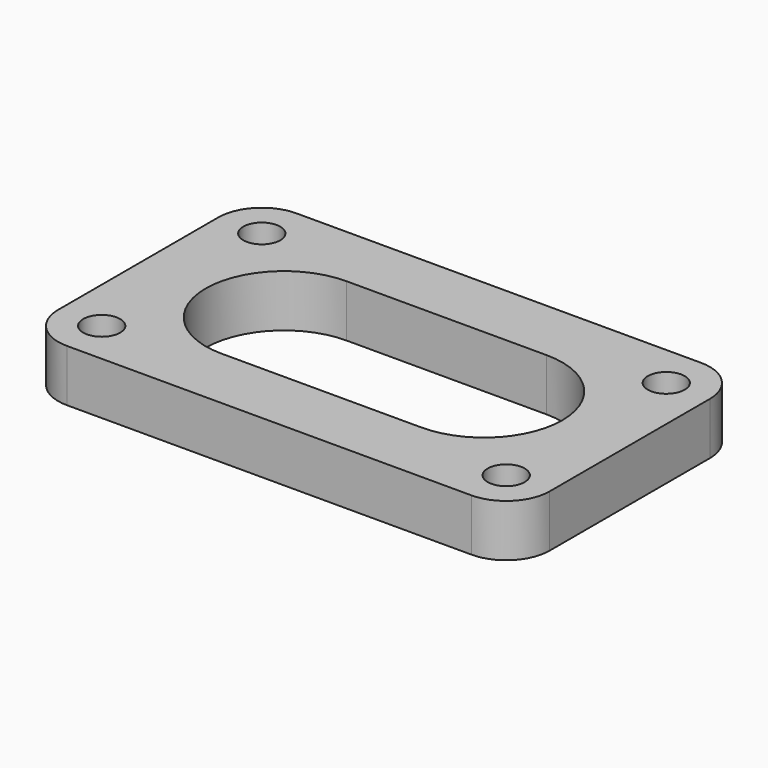
from build123d import *

# Parameters (mm, degrees)
F0_R     = 4.25
F1_DEPTH = 12


with BuildPart() as f1:
    # F0 (on Top) → F1 (new body)
    with BuildSketch(Plane.XY):
        with BuildLine():
            Line((46.5, 33), (-46.5, 33))
            ThreePointArc((-46.5, 33), (-53.571068, 30.071068), (-56.5, 23))
            Line((-56.5, 23), (-56.5, -23))
            ThreePointArc((-56.5, -23), (-53.571068, -30.071068), (-46.5, -33))
            Line((-46.5, -33), (46.5, -33))
            ThreePointArc((46.5, -33), (53.571068, -30.071068), (56.5, -23))
            Line((56.5, -23), (56.5, 23))
            ThreePointArc((56.5, 23), (53.571068, 30.071068), (46.5, 33))
        make_face()
        with Locations((-46.5, -23)):
            Circle(F0_R, mode=Mode.SUBTRACT)
        with Locations((46.5, -23)):
            Circle(F0_R, mode=Mode.SUBTRACT)
        with Locations((-46.5, 23)):
            Circle(F0_R, mode=Mode.SUBTRACT)
        with BuildLine():
            Line((23, -18), (-23, -18))
            ThreePointArc((-23, -18), (-41, 0), (-23, 18))
            Line((-23, 18), (23, 18))
            ThreePointArc((23, 18), (41, 0), (23, -18))
        make_face(mode=Mode.SUBTRACT)
        with Locations((46.5, 23)):
            Circle(F0_R, mode=Mode.SUBTRACT)
    extrude(amount=F1_DEPTH)


solid = f1.part
